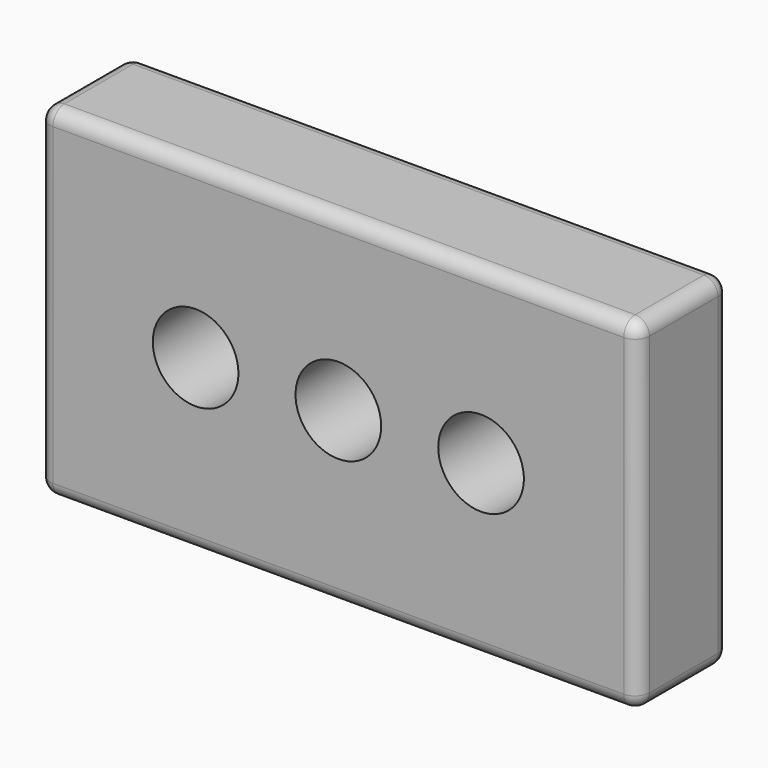
from build123d import *

# Parameters (mm, degrees)
F0_W     = 105
F0_H     = 60
F0_R     = 7.5
F1_DEPTH = 20
F2_R     = 2.5


with BuildPart() as f1:
    # F0 (on Front) → F1 (new body)
    with BuildSketch(Plane.XZ):
        Rectangle(F0_W, F0_H)
        with Locations((-25, 0)):
            Circle(F0_R, mode=Mode.SUBTRACT)
        with BuildLine():
            ThreePointArc((-7.5, 0), (0, 7.5), (7.5, 0))
            ThreePointArc((7.5, 0), (0, -7.5), (-7.5, 0))
        make_face(mode=Mode.SUBTRACT)
        with BuildLine():
            ThreePointArc((32.5, 0), (25, -7.5), (17.5, 0))
            ThreePointArc((17.5, 0), (25, 7.5), (32.5, 0))
        make_face(mode=Mode.SUBTRACT)
    extrude(amount=-F1_DEPTH)

    # F2
    f2_edges = [f1.edges().sort_by_distance(p)[0] for p in [
        (-52.5, 0, 0),
        (0, 0, 30),
        (0, 0, -30),
        (52.5, 0, 0),
        (52.5, 10, 30),
        (-52.5, 10, 30),
        (0, 20, 30),
        (52.5, 20, 0),
        (52.5, 10, -30),
        (0, 20, -30),
        (-52.5, 20, 0),
        (-52.5, 10, -30),
    ]]
    fillet(f2_edges, radius=F2_R)


solid = f1.part
